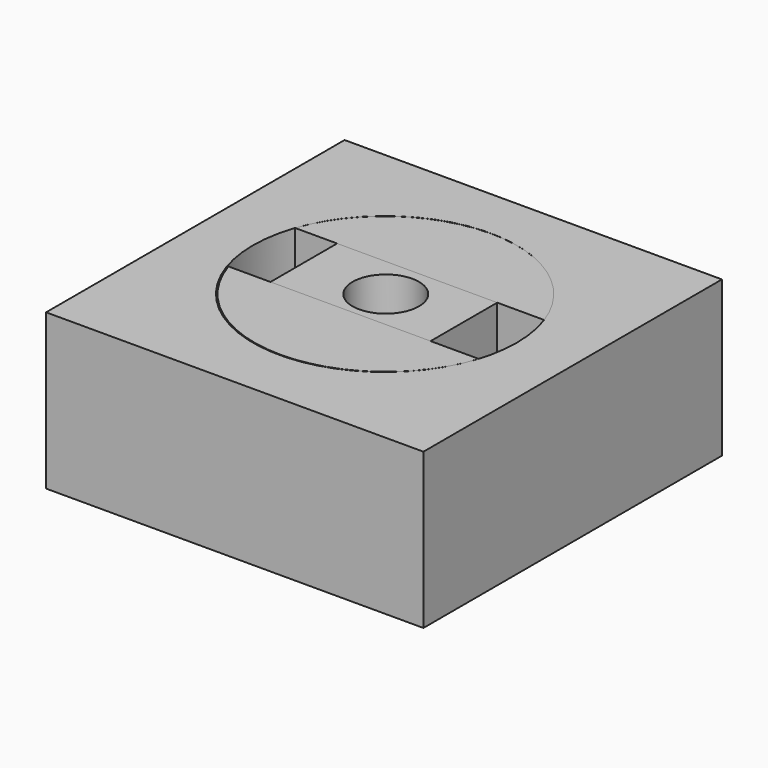
from build123d import *

# Parameters (mm, degrees)
F0_W     = 61.7580674589
F0_H     = 61.0693208873
F0_R     = 21.5882111265
F1_DEPTH = 25.4
F3_DEPTH = 12.7
F4_DEPTH = 12.7
F2_W     = 13.4601416066
F2_H     = 13.6345517801
F2_R     = 5.4335056299
F2_W_2   = 5.8629224077
F2_W_3   = 6.8816458806
F5_DEPTH = 12.7


with BuildPart() as f1:
    # F0 (on Top) → F1 (new body)
    with BuildSketch(Plane.XY):
        with Locations((0.2295803279, -0.4591662437)):
            Rectangle(F0_W, F0_H)
        Circle(F0_R, mode=Mode.SUBTRACT)
    extrude(amount=F1_DEPTH)


with BuildPart() as f3:
    # F2 (on face) → F3 (new body)
    with BuildSketch(Plane.XY.offset(25.4)):
        with BuildLine():
            ThreePointArc((6.3425534195, 20.6354761458), (-9.7169764237, 19.2090718161), (-20.3813017202, 7.1171201925))
            Line((-20.3813017202, 7.1171201925), (-13.5036455467, 7.1171201925))
            Line((-13.5036455467, 7.1171201925), (-7.640723139, 7.1171201925))
            Line((-7.640723139, 7.1171201925), (5.8194184676, 7.1171201925))
            Line((5.8194184676, 7.1171201925), (12.7010643482, 7.1171201925))
            Line((12.7010643482, 7.1171201925), (20.3813017202, 7.1171201925))
            ThreePointArc((20.3813017202, 7.1171201925), (14.9742310421, 15.5506676494), (6.3425534195, 20.6354761458))
        make_face()
    extrude(amount=-F3_DEPTH)


with BuildPart() as f4:
    # F2 (on face) → F4 (new body)
    with BuildSketch(Plane.XY.offset(25.4)):
        with BuildLine():
            Line((-13.5036455467, -6.5174315876), (-20.3813017202, -6.5174315876))
            ThreePointArc((-20.3813017202, -6.5174315876), (0.0998052176, -21.4450623609), (20.5809121553, -6.5174315876))
            Line((20.5809121553, -6.5174315876), (12.7010643482, -6.5174315876))
            Line((12.7010643482, -6.5174315876), (5.8194184676, -6.5174315876))
            Line((5.8194184676, -6.5174315876), (-7.640723139, -6.5174315876))
            Line((-7.640723139, -6.5174315876), (-13.5036455467, -6.5174315876))
        make_face()
    extrude(amount=-F4_DEPTH)


with BuildPart() as f5:
    # F2 (on face) → F5 (new body)
    with BuildSketch(Plane.XY.offset(25.4)):
        with Locations((-0.9106523357, 0.2998443025)):
            Rectangle(F2_W, F2_H)
        with Locations((0.0998052176, 0.0690650869)):
            Circle(F2_R, mode=Mode.SUBTRACT)
        with Locations((-10.5721843429, 0.2998443025)):
            Rectangle(F2_W_2, F2_H)
        with Locations((9.2602414079, 0.2998443025)):
            Rectangle(F2_W_3, F2_H)
    extrude(amount=-F5_DEPTH)


solid = Compound([f1.part, f3.part, f4.part, f5.part])
